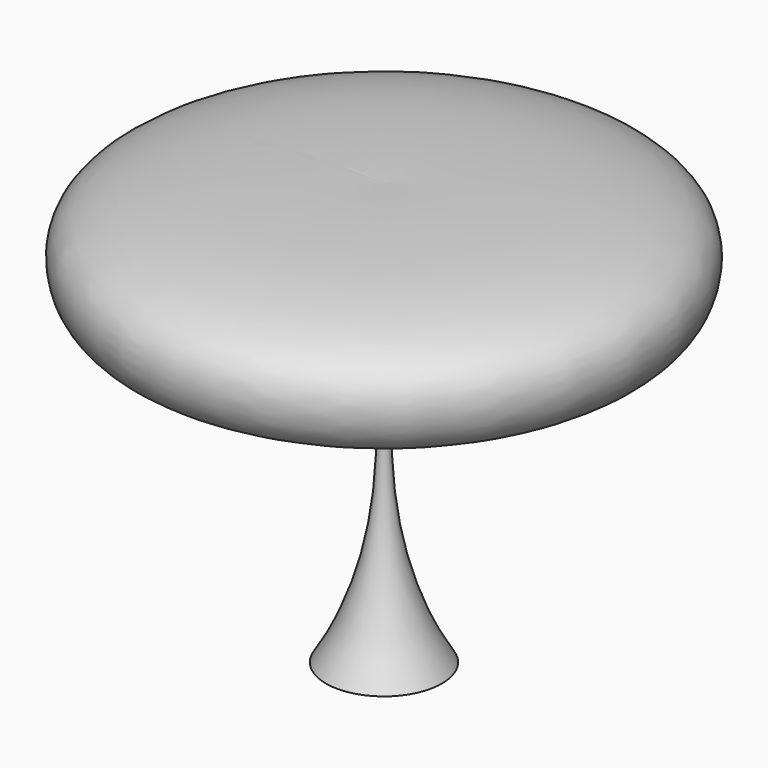
from build123d import *


with BuildPart() as f1:
    # F0 (on Front) → F1 (revolve)
    with BuildSketch(Plane.XZ):
        with BuildLine():
            Line((0, -57.8531995416), (0, 42.1468004584))
            add(Edge.make_bspline(
                [(0, 42.1468004584), (-10.6491965106, 42.4830572489), (-29.8457453716, 41.8988756404), (-46.0761903777, 39.9953905425), (-64.602760121, 34.2593659816), (-61.5387773435, 15.2220795305), (-40.6924628799, 12.9772610244), (-20.420268456, 11.3125672127), (-3.0958228745, 13.3507372811)],
                knots=[0, 0, 0, 0, 0.1971885014, 0.3464396353, 0.4912847523, 0.6226294698, 0.7721436447, 1, 1, 1, 1], degree=3))
            add(Edge.make_bspline(
                [(-3.0958228745, 13.3507372811), (0, -10.254913941), (0, -35.988945514), (-13.7377148494, -57.8531995416)],
                knots=[0, 0, 0, 0, 71.9947948387, 71.9947948387, 71.9947948387, 71.9947948387], degree=3))
            Line((-13.7377148494, -57.8531995416), (0, -57.8531995416))
        make_face()
    revolve(axis=Axis((0, 0, -7.8531995416), (0, 0, 1)))


solid = f1.part
